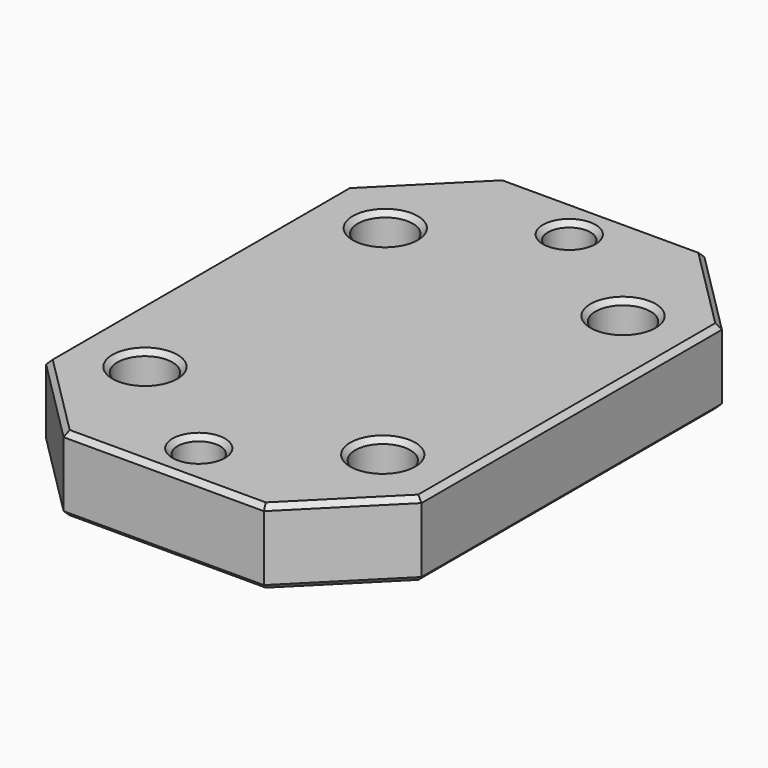
from build123d import *

# Parameters (mm, degrees)
SKETCH030_W     = 30
SKETCH030_H     = 44
SKETCH030_R     = 2.2
SKETCH030_R_2   = 1.7
PAD016_DEPTH    = 6
CHAMFER007_SIZE = 7
CHAMFER008_SIZE = 0.4


with BuildPart() as part:
    # Sketch030 → Pad016 (new body)
    with BuildSketch(Plane.XY):
        Rectangle(SKETCH030_W, SKETCH030_H)
        with Locations((9.5, 12)):
            Circle(SKETCH030_R, mode=Mode.SUBTRACT)
        with Locations((-9.5, 12)):
            Circle(SKETCH030_R, mode=Mode.SUBTRACT)
        with Locations((-9.5, -12)):
            Circle(SKETCH030_R, mode=Mode.SUBTRACT)
        with Locations((9.5, -12)):
            Circle(SKETCH030_R, mode=Mode.SUBTRACT)
        with Locations((0, 18.5)):
            Circle(SKETCH030_R_2, mode=Mode.SUBTRACT)
        with Locations((0, -18.5)):
            Circle(SKETCH030_R_2, mode=Mode.SUBTRACT)
    extrude(amount=PAD016_DEPTH)

    # Chamfer007
    chamfer007_edges = [part.edges().sort_by_distance(p)[0] for p in [
        (15, 22, 3),
        (-15, 22, 3),
        (-15, -22, 3),
        (15, -22, 3),
    ]]
    chamfer(chamfer007_edges, length=CHAMFER007_SIZE)

    # Chamfer008
    chamfer008_edges = [part.edges().sort_by_distance(p)[0] for p in [
        (-15, 0, 6),
        (-11.5, -18.5, 6),
        (-11.5, 18.5, 6),
        (0, -22, 6),
        (0, 22, 6),
        (11.5, -18.5, 6),
        (11.5, 18.5, 6),
        (15, 0, 6),
        (7.3, 12, 6),
        (-11.7, 12, 6),
        (-11.7, -12, 6),
        (7.3, -12, 6),
        (-1.7, 18.5, 6),
        (-1.7, -18.5, 6),
        (-15, 0, 0),
        (-11.5, -18.5, 0),
        (-11.5, 18.5, 0),
        (0, -22, 0),
        (0, 22, 0),
        (11.5, -18.5, 0),
        (11.5, 18.5, 0),
        (15, 0, 0),
        (7.3, 12, 0),
        (-11.7, 12, 0),
        (-11.7, -12, 0),
        (7.3, -12, 0),
        (-1.7, 18.5, 0),
        (-1.7, -18.5, 0),
    ]]
    chamfer(chamfer008_edges, length=CHAMFER008_SIZE)


with BuildPart() as part_1:
    # Body011 placement: moved
    add(part.part.moved(Location((0, 171, -17.3))))


solid = part_1.part
